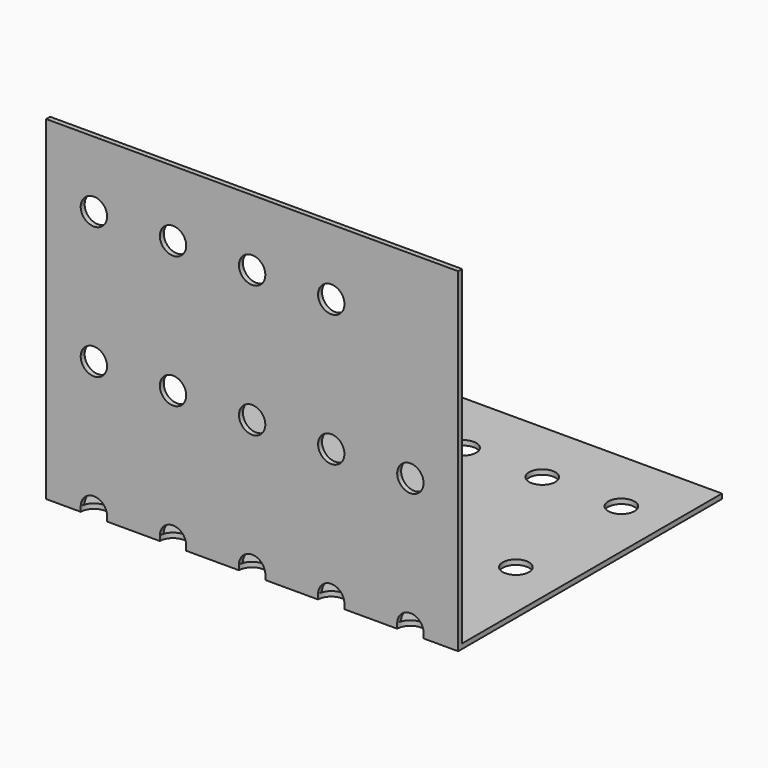
from build123d import *

# Parameters (mm, degrees)
F0_R     = 2.54
F1_DEPTH = 0.9525
F2_R     = 2.54
F3_DEPTH = 0.9398


with BuildPart() as f1:
    # F0 (on Front) → F1 (new body)
    with BuildSketch(Plane.XZ):
        with BuildLine():
            Line((39.6875, 0), (39.6875, 63.5))
            Line((39.6875, 63.5), (-39.6875, 63.5))
            Line((-39.6875, 63.5), (-39.6875, 0))
            Line((-39.6875, 0), (-33.02, 0))
            ThreePointArc((-33.02, 0), (-30.48, 2.54), (-27.94, 0))
            Line((-27.94, 0), (-17.78, 0))
            ThreePointArc((-17.78, 0), (-15.24, 2.54), (-12.7, 0))
            Line((-12.7, 0), (-2.54, 0))
            ThreePointArc((-2.54, 0), (0, 2.54), (2.54, 0))
            Line((2.54, 0), (12.7, 0))
            ThreePointArc((12.7, 0), (15.24, 2.54), (17.78, 0))
            Line((17.78, 0), (27.94, 0))
            ThreePointArc((27.94, 0), (30.48, 2.54), (33.02, 0))
            Line((33.02, 0), (39.6875, 0))
        make_face()
        with Locations((-30.48, 25.4)):
            Circle(F0_R, mode=Mode.SUBTRACT)
        with Locations((-15.24, 25.4)):
            Circle(F0_R, mode=Mode.SUBTRACT)
        with Locations((0, 25.4)):
            Circle(F0_R, mode=Mode.SUBTRACT)
        with Locations((15.24, 25.4)):
            Circle(F0_R, mode=Mode.SUBTRACT)
        with Locations((30.48, 25.4)):
            Circle(F0_R, mode=Mode.SUBTRACT)
        with Locations((-30.48, 50.8)):
            Circle(F0_R, mode=Mode.SUBTRACT)
        with Locations((-15.24, 50.8)):
            Circle(F0_R, mode=Mode.SUBTRACT)
        with Locations((0, 50.8)):
            Circle(F0_R, mode=Mode.SUBTRACT)
        with Locations((15.24, 50.8)):
            Circle(F0_R, mode=Mode.SUBTRACT)
    extrude(amount=-F1_DEPTH)

    # F2 (on Top) → F3 (join)
    with BuildSketch(Plane.XY):
        with BuildLine():
            Line((39.6875, 0), (39.6875, 63.5))
            Line((39.6875, 63.5), (-39.6875, 63.5))
            Line((-39.6875, 63.5), (-39.6875, 0))
            Line((-39.6875, 0), (-33.02, 0))
            ThreePointArc((-33.02, 0), (-30.48, 2.54), (-27.94, 0))
            Line((-27.94, 0), (-17.78, 0))
            ThreePointArc((-17.78, 0), (-15.24, 2.54), (-12.7, 0))
            Line((-12.7, 0), (-2.54, 0))
            ThreePointArc((-2.54, 0), (0, 2.54), (2.54, 0))
            Line((2.54, 0), (12.7, 0))
            ThreePointArc((12.7, 0), (15.24, 2.54), (17.78, 0))
            Line((17.78, 0), (27.94, 0))
            ThreePointArc((27.94, 0), (30.48, 2.54), (33.02, 0))
            Line((33.02, 0), (39.6875, 0))
        make_face()
        with Locations((-30.48, 25.4)):
            Circle(F2_R, mode=Mode.SUBTRACT)
        with Locations((-15.24, 25.4)):
            Circle(F2_R, mode=Mode.SUBTRACT)
        with Locations((0, 25.4)):
            Circle(F2_R, mode=Mode.SUBTRACT)
        with Locations((15.24, 25.4)):
            Circle(F2_R, mode=Mode.SUBTRACT)
        with Locations((30.48, 25.4)):
            Circle(F2_R, mode=Mode.SUBTRACT)
        with Locations((-30.48, 50.8)):
            Circle(F2_R, mode=Mode.SUBTRACT)
        with Locations((-15.24, 50.8)):
            Circle(F2_R, mode=Mode.SUBTRACT)
        with Locations((0, 50.8)):
            Circle(F2_R, mode=Mode.SUBTRACT)
        with Locations((15.24, 50.8)):
            Circle(F2_R, mode=Mode.SUBTRACT)
        with Locations((30.48, 50.8)):
            Circle(F2_R, mode=Mode.SUBTRACT)
    extrude(amount=-F3_DEPTH)


solid = f1.part
